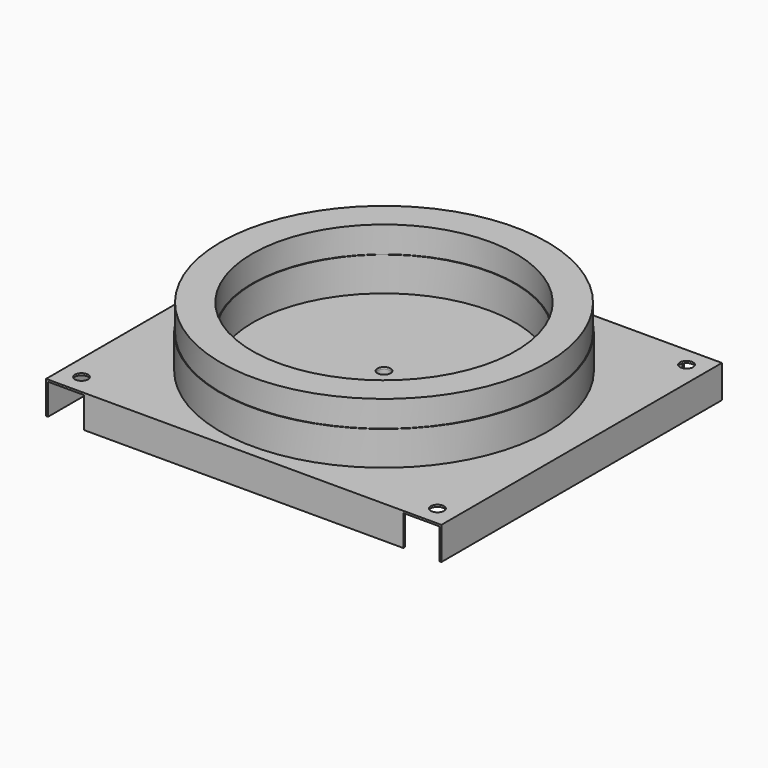
from build123d import *

# Parameters (mm, degrees)
F2_W     = 603
F2_H     = 535
F2_R     = 10
F2_R_2   = 201
F3_DEPTH = 3
F4_W     = 3
F4_H     = 535
F4_W_2   = 487
F4_H_2   = 3
F5_DEPTH = 50
F6_R     = 13
F6_R_2   = 10
F7_DEPTH = 50


with BuildPart() as f1:
    # F0 (on Front) → F1 (revolve)
    with BuildSketch(Plane.XZ):
        Polygon((-250, 3), (-200, 3), (-200, 55), (-201, 55), (-201, 95), (-249, 95), (-249, 55), (-250, 55), align=None)
        Polygon((-10, 3), (-200, 3), (-250, 3), (-250, 0), (-10, 0), align=None)
    revolve(axis=Axis((0, 0, 187.921241), (0, 0, -1)))

    # F2 (on Top) → F3 (join)
    with BuildSketch(Plane.XY):
        Rectangle(F2_W, F2_H)
        with Locations((-271.5, -237.5)):
            Circle(F2_R, mode=Mode.SUBTRACT)
        with Locations((271.5, -237.5)):
            Circle(F2_R, mode=Mode.SUBTRACT)
        with Locations((-271.5, 237.5)):
            Circle(F2_R, mode=Mode.SUBTRACT)
        Circle(F2_R_2, mode=Mode.SUBTRACT)
        with Locations((271.5, 237.5)):
            Circle(F2_R, mode=Mode.SUBTRACT)
    extrude(amount=F3_DEPTH)

    # F4 (on face) → F5 (join)
    with BuildSketch(Plane.XY.offset(3)):
        with Locations((-300, 0)):
            Rectangle(F4_W, F4_H)
        with Locations((300, 0)):
            Rectangle(F4_W, F4_H)
        with Locations((0, -266)):
            Rectangle(F4_W_2, F4_H_2)
        with Locations((0, 266)):
            Rectangle(F4_W_2, F4_H_2)
    extrude(amount=-F5_DEPTH)

    # F6 (on face) → F7 (join)
    with BuildSketch(Plane(origin=(0, 0, 0), x_dir=(1, 0, 0), z_dir=(0, 0, -1))):
        Circle(F6_R)
        Circle(F6_R_2, mode=Mode.SUBTRACT)
    extrude(amount=F7_DEPTH)


solid = f1.part
